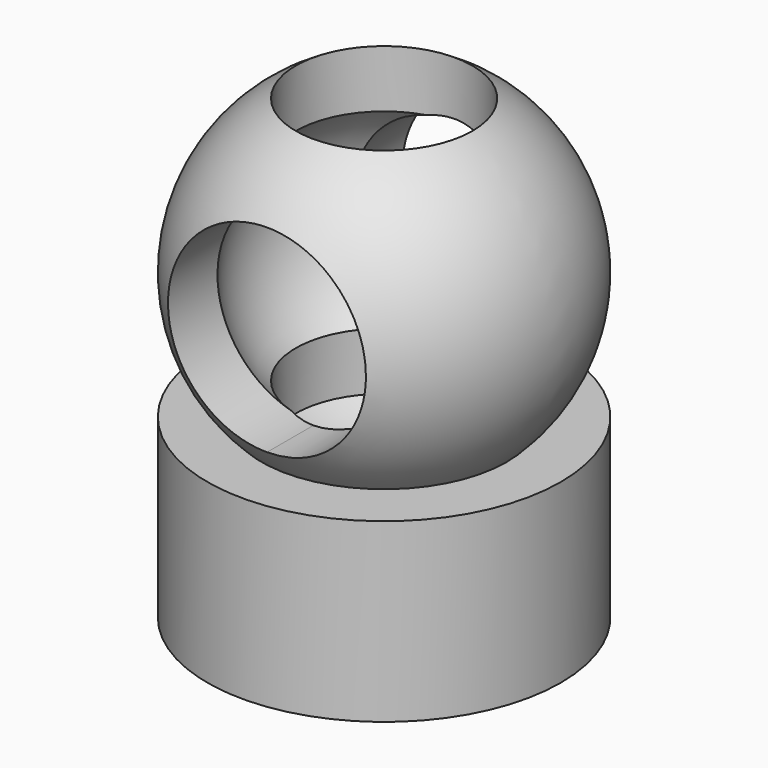
from build123d import *

# Parameters (mm, degrees)
F3_DEPTH      = 3.176
F3_DEPTH_BACK = 25.4


with BuildPart() as f1:
    # F0 (on Front) → F1 (revolve)
    with BuildSketch(Plane.XZ):
        with BuildLine():
            Line((1.5875, 0.5691135997), (1.5875, 0))
            Line((1.5875, 0), (2.2033676498, 0))
            ThreePointArc((2.2033676498, 0), (3.1515176365, 2.6714368781), (1.5875, 5.035630657))
            Line((1.5875, 5.035630657), (1.5875, 4.0028864003))
            ThreePointArc((1.5875, 4.0028864003), (2.3383445344, 2.286), (1.5875, 0.5691135997))
        make_face()
        with BuildLine():
            ThreePointArc((1.5875, -0.463630657), (1.2016326584, -0.6528269691), (0.79375, -0.7881805311))
            Line((0.79375, -0.7881805311), (0.79375, -0.889))
            Line((0.79375, -0.889), (0.79375, -3.175))
            Line((0.79375, -3.175), (3.175, -3.175))
            Line((3.175, -3.175), (3.175, 0))
            Line((3.175, 0), (2.2033676498, 0))
            ThreePointArc((2.2033676498, 0), (1.9095569463, -0.2505758946), (1.5875, -0.463630657))
        make_face()
        with BuildLine():
            Line((2.2033676498, 0), (1.5875, 0))
            Line((1.5875, 0), (1.5875, -0.463630657))
            ThreePointArc((1.5875, -0.463630657), (1.9095569463, -0.2505758946), (2.2033676498, 0))
        make_face()
    revolve(axis=Axis((0, 0, 2.286), (0, 0, 1)))

    # F2 (on Front) → F3 (cut, two sides)
    with BuildSketch(Plane.XZ) as f3_sk:
        with BuildLine():
            ThreePointArc((0, 0.508), (1.2572358569, 1.0287641431), (1.778, 2.286))
            ThreePointArc((1.778, 2.286), (-1.2572358569, 3.5432358569), (0, 0.508))
        make_face()
    extrude(amount=F3_DEPTH, mode=Mode.SUBTRACT)
    extrude(f3_sk.sketch, amount=-F3_DEPTH_BACK, mode=Mode.SUBTRACT)


solid = f1.part
